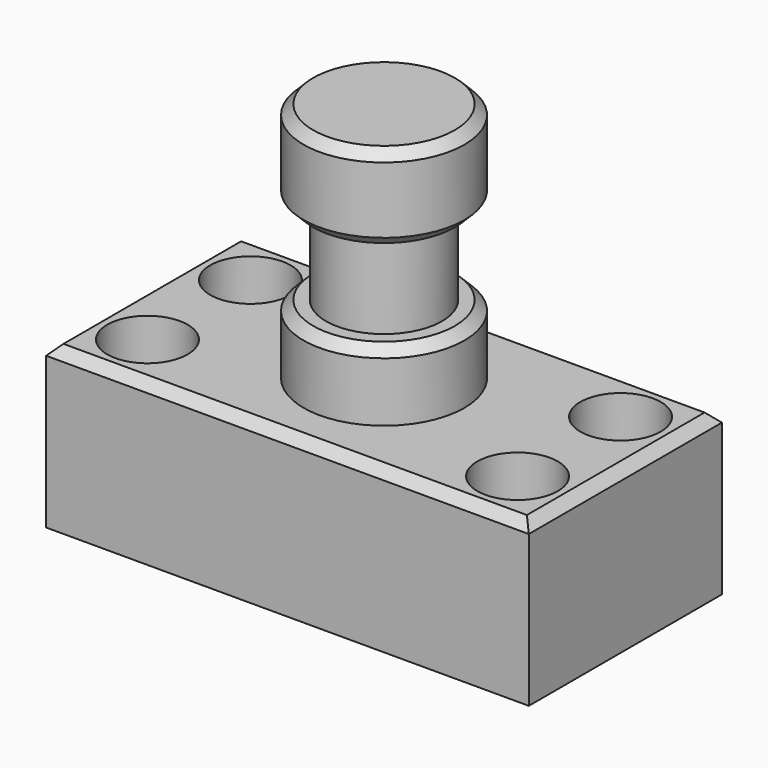
from build123d import *

# Parameters (mm, degrees)
F0_W     = 76.2
F0_H     = 38.1
F1_DEPTH = 25.4
F2_R     = 6.35
F3_DEPTH = 25.4
F4_DEPTH = 25.4
F5_R     = 12.7
F6_DEPTH = 38.1
F7_W     = 16.6140981019
F7_H     = 13.6993415654
F9_SIZE  = 1.524
F10_SIZE = 1.524
F11_SIZE = 1.524


with BuildPart() as f1:
    # F0 (on Top) → F1 (new body)
    with BuildSketch(Plane.XY):
        with Locations((2.8314734757, -25.9829519808)):
            Rectangle(F0_W, F0_H)
    extrude(amount=F1_DEPTH)

    # F2 (on Top) → F3 (cut)
    with BuildSketch(Plane.XY):
        with Locations((-26.3785265243, -15.8229519808)):
            Circle(F2_R)
    extrude(amount=F3_DEPTH, mode=Mode.SUBTRACT)

    # F2 (on Top) → F4 (cut)
    with BuildSketch(Plane.XY):
        with Locations((-26.3785265243, -15.8229519808)):
            Circle(F2_R)
        with Locations((-26.3785265243, -36.1429519808)):
            Circle(F2_R)
        with Locations((32.0414734757, -15.8229519808)):
            Circle(F2_R)
        with Locations((32.0414734757, -36.1429519808)):
            Circle(F2_R)
    extrude(amount=F4_DEPTH, mode=Mode.SUBTRACT)

    # F5 (on face) → F6 (join)
    with BuildSketch(Plane.XY.offset(25.4)):
        with Locations((2.8314734757, -25.9829519808)):
            Circle(F5_R)
    extrude(amount=F6_DEPTH)

    # F7 (on Right) → F8 (revolve, cut)
    with BuildSketch(Plane.YZ):
        with Locations((-42.9926235229, 43.1383606046)):
            Rectangle(F7_W, F7_H)
    revolve(axis=Axis((2.8314734757, -25.9829519808, 63.5), (0, 0, 1)), mode=Mode.SUBTRACT)

    # F9
    f9_edges = [f1.edges().sort_by_distance(p)[0] for p in [
        (40.931473, -25.982952, 25.4),
    ]]
    chamfer(f9_edges, length=F9_SIZE)

    # F10
    f10_edges = [f1.edges().sort_by_distance(p)[0] for p in [
        (2.069473, -6.932952, 25.4),
        (-35.268527, -25.982952, 25.4),
    ]]
    chamfer(f10_edges, length=F10_SIZE)

    # F11
    f11_edges = [f1.edges().sort_by_distance(p)[0] for p in [
        (2.831473, -45.032952, 25.4),
        (-9.868527, -25.982952, 36.28869),
        (-9.868527, -25.982952, 49.988031),
        (-9.868527, -25.982952, 63.5),
    ]]
    chamfer(f11_edges, length=F11_SIZE)


solid = f1.part
